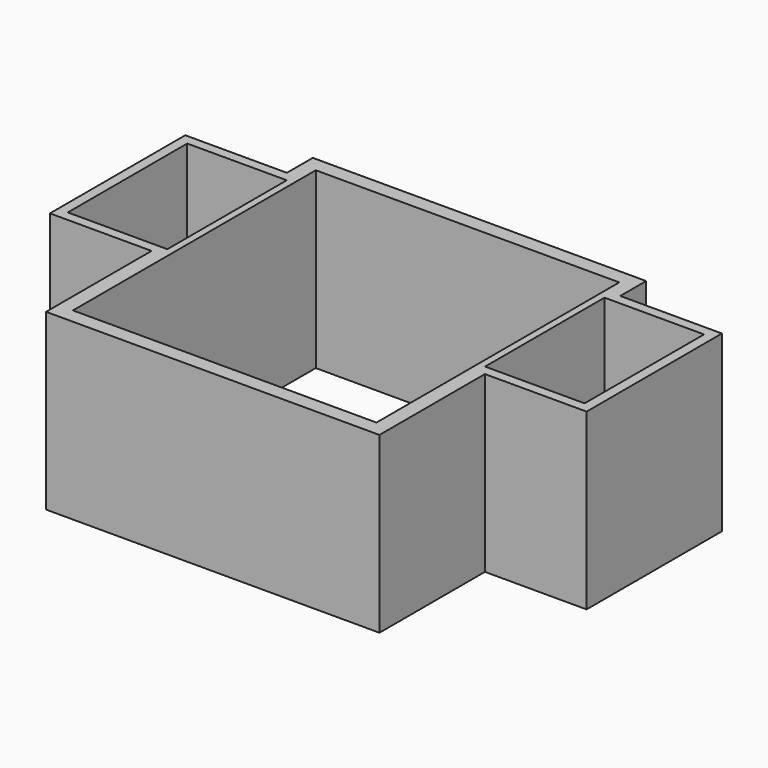
from build123d import *

# Parameters (mm, degrees)
F0_W     = 20
F0_H     = 30
F1_DEPTH = 35


with BuildPart() as f1:
    # F0 (on Top) → F1 (new body)
    with BuildSketch(Plane.XY):
        Polygon((-33.5, -7), (-30.5, -7), (-30.5, 27), (-33.5, 27), (-53.929, 27), (-53.929, -7), align=None)
        with Locations((-41.929, 10)):
            Rectangle(F0_W, F0_H, mode=Mode.SUBTRACT)
        Polygon((30.5, 30.5), (30.5, 27), (33.5, 27), (33.5, 33.5), (-33.5, 33.5), (-33.5, 27), (-30.5, 27), (-30.5, 30.5), align=None)
        Polygon((30.5, 27), (30.5, -7), (33.5, -7), (53.929, -7), (53.929, 27), (33.5, 27), align=None)
        with Locations((41.929, 10)):
            Rectangle(F0_W, F0_H, mode=Mode.SUBTRACT)
        Polygon((30.5, -7), (30.5, -30.5), (-30.5, -30.5), (-30.5, -7), (-33.5, -7), (-33.5, -33.5), (33.5, -33.5), (33.5, -7), align=None)
    extrude(amount=F1_DEPTH)


solid = f1.part
